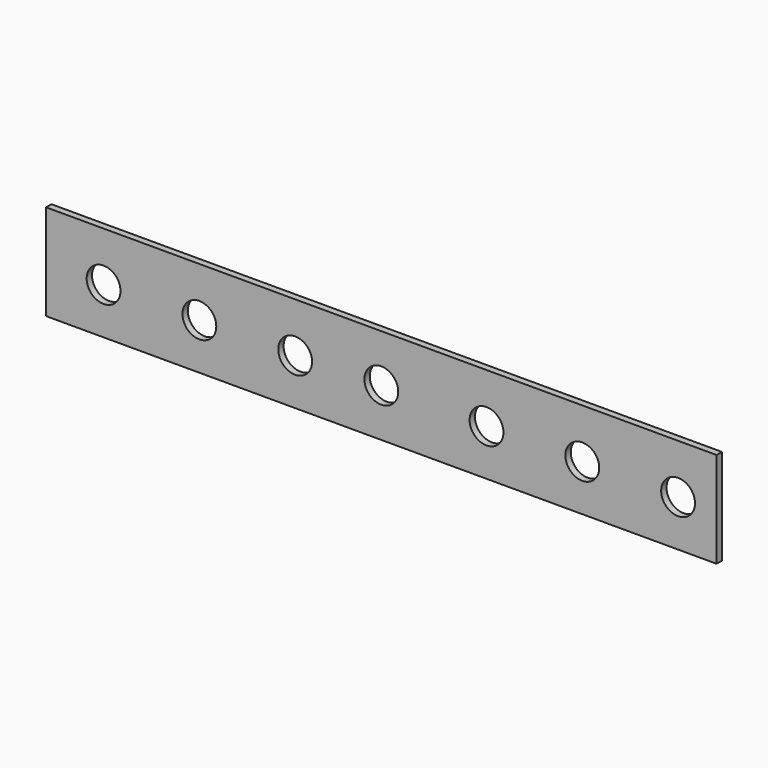
from build123d import *

# Parameters (mm, degrees)
F0_W     = 177.8
F0_H     = 25.4
F0_R     = 4.486887
F1_DEPTH = 1.778


with BuildPart() as f1:
    # F0 (on Front) → F1 (new body)
    with BuildSketch(Plane.XZ):
        with Locations((0, -15.423197)):
            Rectangle(F0_W, F0_H)
        with Locations((-73.651636, -15.850472)):
            Circle(F0_R, mode=Mode.SUBTRACT)
        with Locations((-48.251636, -15.850472)):
            Circle(F0_R, mode=Mode.SUBTRACT)
        with Locations((-22.851636, -15.850472)):
            Circle(F0_R, mode=Mode.SUBTRACT)
        with Locations((27.899495, -15.850472)):
            Circle(F0_R, mode=Mode.SUBTRACT)
        with Locations((53.299495, -15.850472)):
            Circle(F0_R, mode=Mode.SUBTRACT)
        with Locations((78.699495, -15.850472)):
            Circle(F0_R, mode=Mode.SUBTRACT)
        with Locations((0, -15.423197)):
            Circle(F0_R, mode=Mode.SUBTRACT)
    extrude(amount=F1_DEPTH)


solid = f1.part
